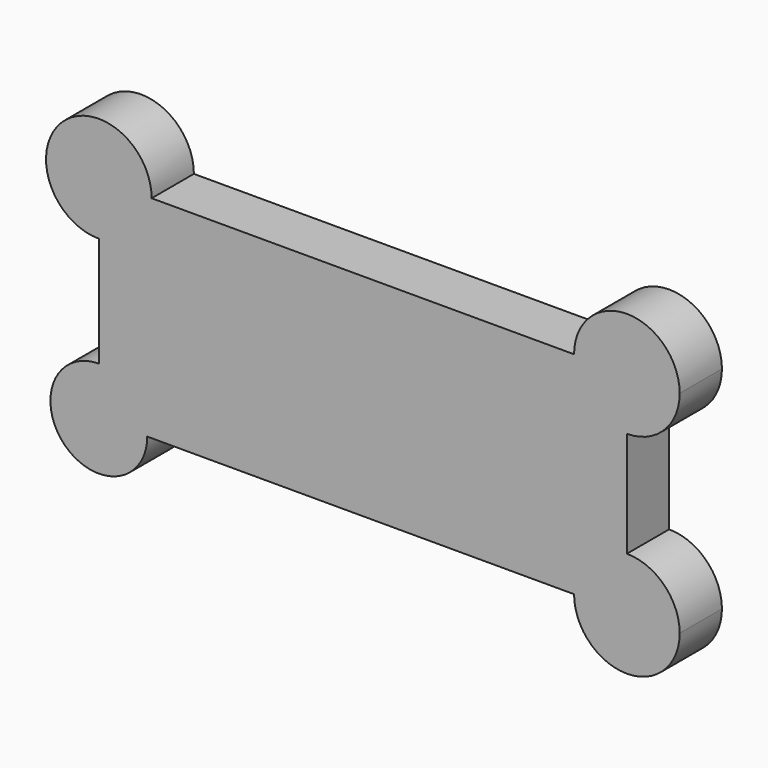
from build123d import *

# Parameters (mm, degrees)
F1_DEPTH = 12.7


with BuildPart() as f1:
    # F0 (on Front) → F1 (new body)
    with BuildSketch(Plane.XZ):
        with BuildLine():
            ThreePointArc((-63.5, 12.7), (-54.5197438789, 16.4197438789), (-50.8, 25.4))
            Line((-50.8, 25.4), (-63.5, 25.4))
            Line((-63.5, 25.4), (-63.5, 12.7))
        make_face()
        with BuildLine():
            Line((-63.5, 25.4), (-50.8, 25.4))
            ThreePointArc((-50.8, 25.4), (-72.4802561211, 34.3802561211), (-63.5, 12.7))
            Line((-63.5, 12.7), (-63.5, 25.4))
        make_face()
        with BuildLine():
            Line((50.8, 25.4), (-50.8, 25.4))
            ThreePointArc((-50.8, 25.4), (-54.5197438789, 16.4197438789), (-63.5, 12.7))
            Line((-63.5, 12.7), (-63.5, -13.7539286115))
            ThreePointArc((-63.5, -13.7539286115), (-55.264983947, -17.164983947), (-51.8539286115, -25.4))
            Line((-51.8539286115, -25.4), (50.8, -25.4))
            ThreePointArc((50.8, -25.4), (54.5197438789, -16.4197438789), (63.5, -12.7))
            Line((63.5, -12.7), (63.5, 12.7))
            ThreePointArc((63.5, 12.7), (54.5197438789, 16.4197438789), (50.8, 25.4))
        make_face()
        with BuildLine():
            ThreePointArc((76.2, 25.4), (63.5, 38.1), (50.8, 25.4))
            Line((50.8, 25.4), (63.5, 25.4))
            Line((63.5, 25.4), (63.5, 12.7))
            ThreePointArc((63.5, 12.7), (72.4802561211, 16.4197438789), (76.2, 25.4))
        make_face()
        with BuildLine():
            Line((63.5, 25.4), (50.8, 25.4))
            ThreePointArc((50.8, 25.4), (54.5197438789, 16.4197438789), (63.5, 12.7))
            Line((63.5, 12.7), (63.5, 25.4))
        make_face()
        with BuildLine():
            ThreePointArc((-51.8539286115, -25.4), (-55.264983947, -17.164983947), (-63.5, -13.7539286115))
            Line((-63.5, -13.7539286115), (-63.5, -25.4))
            Line((-63.5, -25.4), (-51.8539286115, -25.4))
        make_face()
        with BuildLine():
            Line((-63.5, -25.4), (-63.5, -13.7539286115))
            ThreePointArc((-63.5, -13.7539286115), (-71.735016053, -33.635016053), (-51.8539286115, -25.4))
            Line((-51.8539286115, -25.4), (-63.5, -25.4))
        make_face()
        with BuildLine():
            ThreePointArc((76.2, -25.4), (72.4802561211, -16.4197438789), (63.5, -12.7))
            Line((63.5, -12.7), (63.5, -25.4))
            Line((63.5, -25.4), (50.8, -25.4))
            ThreePointArc((50.8, -25.4), (63.5, -38.1), (76.2, -25.4))
        make_face()
        with BuildLine():
            Line((63.5, -25.4), (63.5, -12.7))
            ThreePointArc((63.5, -12.7), (54.5197438789, -16.4197438789), (50.8, -25.4))
            Line((50.8, -25.4), (63.5, -25.4))
        make_face()
    extrude(amount=F1_DEPTH)


solid = f1.part
